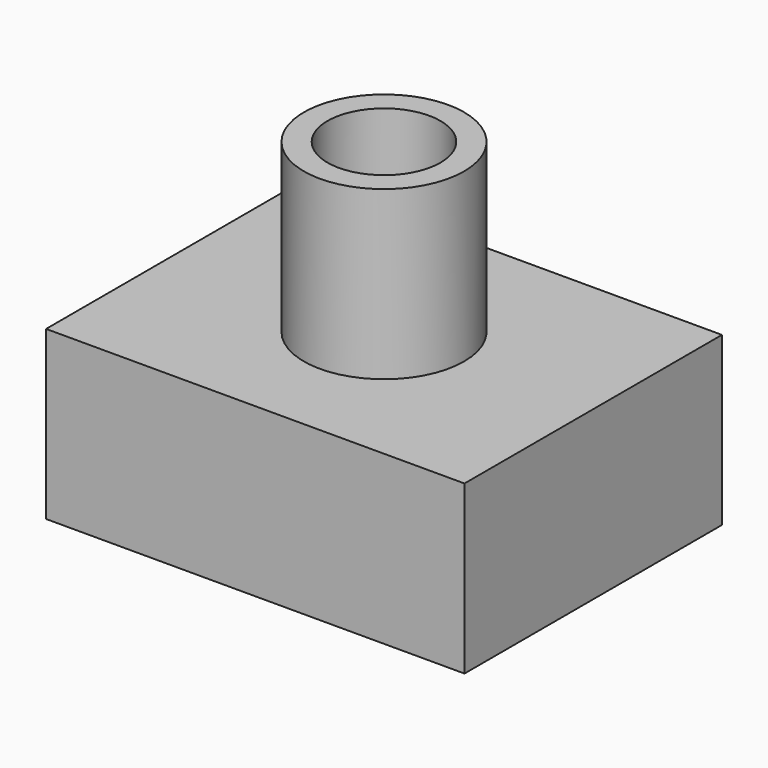
from build123d import *

# Parameters (mm, degrees)
F0_W     = 127.0000040531
F0_H     = 97.6745411754
F0_R     = 24.3083232654
F0_R_2   = 17.1484022814
F1_DEPTH = 25.4
F2_DEPTH = 50.8
F3_DEPTH = 76.2


with BuildPart() as f1:
    # F0 (on Top) → F1 (new body)
    with BuildSketch(Plane.XY):
        Rectangle(F0_W, F0_H)
        Circle(F0_R, mode=Mode.SUBTRACT)
        Circle(F0_R)
        Circle(F0_R_2, mode=Mode.SUBTRACT)
    extrude(amount=F1_DEPTH)

    # F0 (on Top) → F2 (join)
    with BuildSketch(Plane.XY):
        Rectangle(F0_W, F0_H)
        Circle(F0_R, mode=Mode.SUBTRACT)
    extrude(amount=F2_DEPTH)

    # F3 (add): a face of the model
    f3_faces = [f1.faces().sort_by_distance(p)[0] for p in [
        (-23.6207800566, 0, 25.4),
    ]]
    extrude(f3_faces, amount=F3_DEPTH)


solid = f1.part
